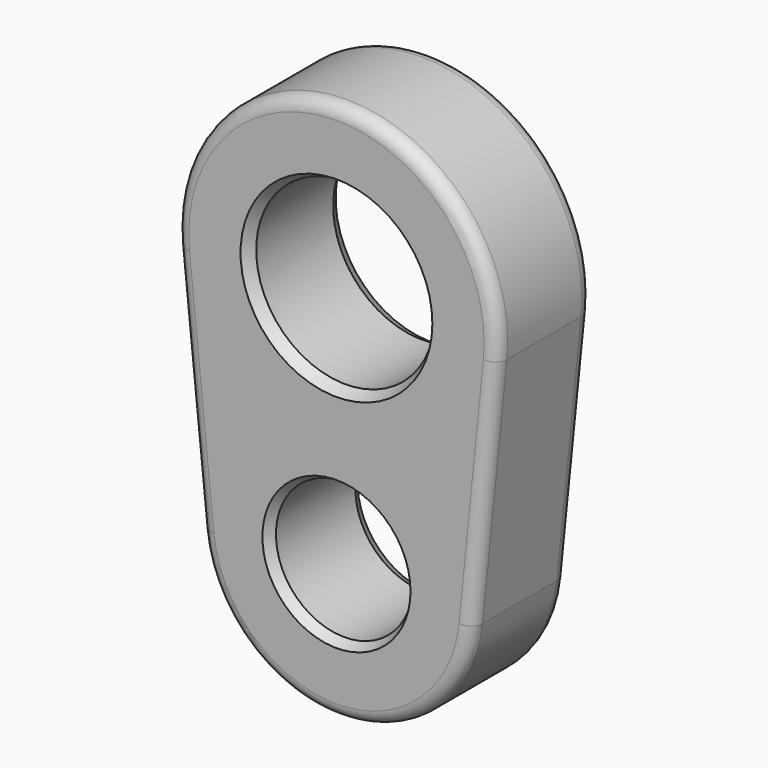
from build123d import *

# Parameters (mm, degrees)
F0_R       = 1.98755
F0_R_2     = 2.59715
F1_DEPTH   = 1.7272
F2_R       = 0.381
F3_R       = 0.381
F4_SIZE2   = 0.3299556788
F4_SIZE    = 0.1905
F4_2_SIZE2 = 0.3299556788
F4_2_SIZE  = 0.1905
F5_SIZE2   = 0.2859615883
F5_SIZE    = 0.1651
F5_2_SIZE2 = 0.2859615883
F5_2_SIZE  = 0.1651


with BuildPart() as f1:
    # F0 (on Front) → F1 (new body, symmetric)
    with BuildSketch(Plane.XZ):
        with BuildLine():
            ThreePointArc((4.6498341341, -0.4707223022), (0, 4.6736), (-4.6498341341, -0.4707223022))
            Line((-4.6498341341, -0.4707223022), (-3.9422506789, -7.4602906475))
            ThreePointArc((-3.9422506789, -7.4602906475), (0, -11.0236), (3.9422506789, -7.4602906475))
            Line((3.9422506789, -7.4602906475), (4.6498341341, -0.4707223022))
        make_face()
        with Locations((0, -7.0612)):
            Circle(F0_R, mode=Mode.SUBTRACT)
        Circle(F0_R_2, mode=Mode.SUBTRACT)
    extrude(amount=F1_DEPTH, both=True)

    # F2
    f2_edges = [f1.edges().sort_by_distance(p)[0] for p in [
        (4.296042, -1.7272, -3.965506),
        (0, -1.7272, 4.6736),
        (-4.296042, -1.7272, -3.965506),
        (0, -1.7272, -11.0236),
    ]]
    fillet(f2_edges, radius=F2_R)

    # F3
    f3_edges = [f1.edges().sort_by_distance(p)[0] for p in [
        (4.296042, 1.7272, -3.965506),
        (0, 1.7272, 4.6736),
        (-4.296042, 1.7272, -3.965506),
        (0, 1.7272, -11.0236),
    ]]
    fillet(f3_edges, radius=F3_R)

    # F4
    f4_edges = [f1.edges().sort_by_distance(p)[0] for p in [
        (-2.59715, -1.7272, 0),
    ]]
    f4_side = f1.faces().sort_by_distance((0, -1.7272, -3.137355))[0]
    chamfer(f4_edges, length=F4_SIZE, length2=F4_SIZE2, reference=f4_side)

    # F4#2
    f4_2_edges = [f1.edges().sort_by_distance(p)[0] for p in [
        (-2.59715, 1.7272, 0),
    ]]
    f4_2_side = f1.faces().sort_by_distance((0, 1.7272, -3.137355))[0]
    chamfer(f4_2_edges, length=F4_2_SIZE, length2=F4_2_SIZE2, reference=f4_2_side)

    # F5
    f5_edges = [f1.edges().sort_by_distance(p)[0] for p in [
        (-1.98755, -1.7272, -7.0612),
    ]]
    f5_side = f1.faces().sort_by_distance((0, -1.7272, -3.285713))[0]
    chamfer(f5_edges, length=F5_SIZE, length2=F5_SIZE2, reference=f5_side)

    # F5#2
    f5_2_edges = [f1.edges().sort_by_distance(p)[0] for p in [
        (-1.98755, 1.7272, -7.0612),
    ]]
    f5_2_side = f1.faces().sort_by_distance((0, 1.7272, -3.285713))[0]
    chamfer(f5_2_edges, length=F5_2_SIZE, length2=F5_2_SIZE2, reference=f5_2_side)


solid = f1.part
